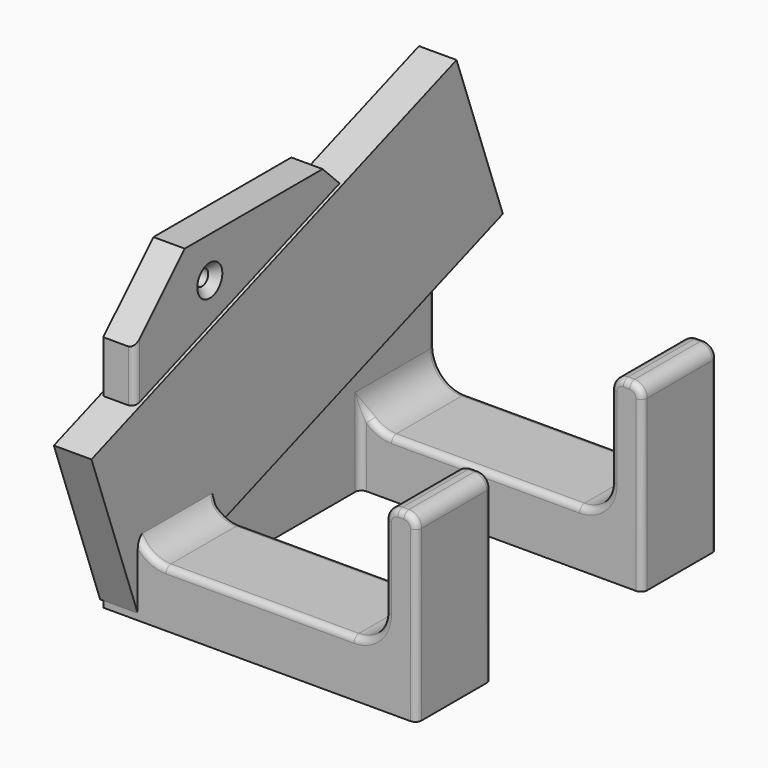
from build123d import *

# Parameters (mm, degrees)
BOX_W               = 12
BOX_H               = 155
BOX_DEPTH           = 54
BOX_PLACEMENT_ANGLE = 20
CYLINDER001_R       = 2.5
CYLINDER001_DEPTH   = 20
CYLINDER_R          = 2.5
CYLINDER_DEPTH      = 20
BOX001_W            = 10
BOX001_H            = 120
BOX001_DEPTH        = 96
BOX004_W            = 10
BOX004_H            = 30
BOX004_DEPTH        = 40
BOX003_W            = 90
BOX003_H            = 30
BOX003_DEPTH        = 18
BOX005_W            = 90
BOX005_H            = 30
BOX005_DEPTH        = 18
BOX002_W            = 10
BOX002_H            = 30
BOX002_DEPTH        = 40
CHAMFER_SIZE        = 2.5
FILLET_R            = 10
FILLET001_R         = 10
CHAMFER001_SIZE     = 45
CHAMFER002_SIZE     = 20
FILLET002_R         = 4
FILLET003_R         = 2
FILLET004_R         = 2


with BuildPart() as cube:
    # Box → Box (new body)
    with BuildSketch(Plane.XY):
        with Locations((6, 77.5)):
            Rectangle(BOX_W, BOX_H)
    extrude(amount=BOX_DEPTH)


with BuildPart() as cube_1:
    # Box placement: moved
    add(cube.part.moved(Location((-21, 0, -6))).rotate(Axis((-21, 0, -6), (1, 0, 0)), BOX_PLACEMENT_ANGLE))


with BuildPart() as cylinder001:
    # Cylinder001 → Cylinder001 (new body)
    with BuildSketch(Plane(origin=(-24, 90, 66), x_dir=(0, 0, -1), z_dir=(1, 0, 0))):
        Circle(CYLINDER001_R)
    extrude(amount=CYLINDER001_DEPTH)


with BuildPart() as fusion002:
    # Cylinder → Cylinder (new body)
    with BuildSketch(Plane(origin=(-24, 30, 87), x_dir=(0, 0, -1), z_dir=(1, 0, 0))):
        Circle(CYLINDER_R)
    extrude(amount=CYLINDER_DEPTH)

    # Fusion002: union Cylinder001
    add(cylinder001.part)


with BuildPart() as fusion002_1:
    # Fusion002 placement: moved
    add(fusion002.part.moved(Location((0, 0, -12))))


with BuildPart() as cube001:
    # Box001 → Box001 (new body)
    with BuildSketch(Plane(origin=(-20, 0, -8), x_dir=(1, 0, 0), z_dir=(0, 0, 1))):
        with Locations((5, 60)):
            Rectangle(BOX001_W, BOX001_H)
    extrude(amount=BOX001_DEPTH)


with BuildPart() as cube004:
    # Box004 → Box004 (new body)
    with BuildSketch(Plane(origin=(70, 90, 10), x_dir=(1, 0, 0), z_dir=(0, 0, 1))):
        with Locations((5, 15)):
            Rectangle(BOX004_W, BOX004_H)
    extrude(amount=BOX004_DEPTH)


with BuildPart() as cube003:
    # Box003 → Box003 (new body)
    with BuildSketch(Plane(origin=(-10, 0, -8), x_dir=(1, 0, 0), z_dir=(0, 0, 1))):
        with Locations((45, 15)):
            Rectangle(BOX003_W, BOX003_H)
    extrude(amount=BOX003_DEPTH)


with BuildPart() as cube005:
    # Box005 → Box005 (new body)
    with BuildSketch(Plane(origin=(-10, 90, -8), x_dir=(1, 0, 0), z_dir=(0, 0, 1))):
        with Locations((45, 15)):
            Rectangle(BOX005_W, BOX005_H)
    extrude(amount=BOX005_DEPTH)


with BuildPart() as fillet004:
    # Box002 → Box002 (new body)
    with BuildSketch(Plane(origin=(70, 0, 10), x_dir=(1, 0, 0), z_dir=(0, 0, 1))):
        with Locations((5, 15)):
            Rectangle(BOX002_W, BOX002_H)
    extrude(amount=BOX002_DEPTH)

    # Fusion: union Cube004, Cube003, Cube005
    add(cube004.part)
    add(cube003.part)
    add(cube005.part)

    # Fusion001: union Cube001
    add(cube001.part)

    # Cut: cut Fusion002
    add(fusion002_1.part, mode=Mode.SUBTRACT)

    # Chamfer
    chamfer_edges = [fillet004.edges().sort_by_distance(p)[0] for p in [
        (-10, 30, 77.5),
        (-10, 90, 56.5),
    ]]
    chamfer(chamfer_edges, length=CHAMFER_SIZE)

    # Fillet
    fillet_edges = [fillet004.edges().sort_by_distance(p)[0] for p in [
        (70, 15, 10),
        (70, 105, 10),
    ]]
    fillet(fillet_edges, radius=FILLET_R)

    # Fillet001
    fillet001_edges = [fillet004.edges().sort_by_distance(p)[0] for p in [
        (-10, 15, 10),
        (-10, 105, 10),
    ]]
    fillet(fillet001_edges, radius=FILLET001_R)

    # Chamfer001
    chamfer001_edges = [fillet004.edges().sort_by_distance(p)[0] for p in [
        (-15, 120, 88),
    ]]
    chamfer(chamfer001_edges, length=CHAMFER001_SIZE)

    # Chamfer002
    chamfer002_edges = [fillet004.edges().sort_by_distance(p)[0] for p in [
        (-15, 0, 88),
    ]]
    chamfer(chamfer002_edges, length=CHAMFER002_SIZE)

    # Fillet002
    fillet002_edges = [fillet004.edges().sort_by_distance(p)[0] for p in [
        (70, 15, 50),
        (80, 15, 50),
        (70, 105, 50),
        (80, 105, 50),
    ]]
    fillet(fillet002_edges, radius=FILLET002_R)

    # Fillet003
    fillet003_edges = [fillet004.edges().sort_by_distance(p)[0] for p in [
        (-10, 30, 1),
        (-10, 90, 1),
    ]]
    fillet(fillet003_edges, radius=FILLET003_R)

    # Fillet004
    fillet004_edges = [fillet004.edges().sort_by_distance(p)[0] for p in [
        (30, 30, 10),
        (30, 0, 10),
        (30, 90, 10),
        (30, 120, 10),
    ]]
    fillet(fillet004_edges, radius=FILLET004_R)


solid = Compound([cube_1.part, fillet004.part])
